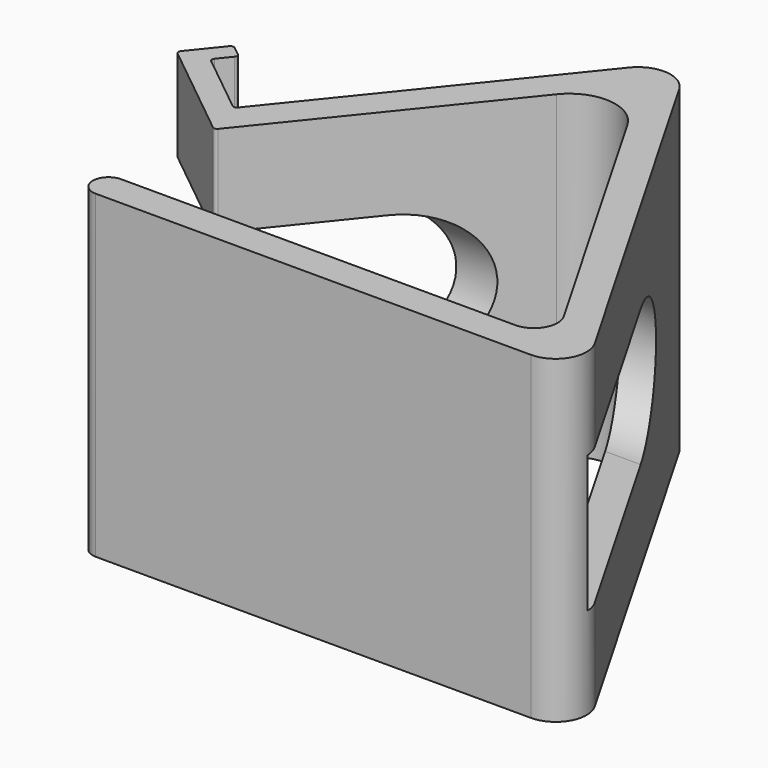
from build123d import *

# Parameters (mm, degrees)
PAD_DEPTH         = 70
POCKET_DEPTH      = 75
POCKET_DEPTH_BACK = 65


with BuildPart() as part:
    # Sketch → Pad (new body)
    with BuildSketch(Plane.XY):
        with BuildLine():
            Line((-9.201384, 43.579781), (-46.391168, -2.578))
            ThreePointArc((-47.445741, -2.691469), (-46.894954, -2.853144), (-46.391168, -2.578))
            Line((-69.249206, 14.875799), (-47.445741, -2.691469))
            ThreePointArc((-69.362676, 15.930373), (-69.52435, 15.379586), (-69.249206, 14.875799))
            Line((-64.029755, 22.549282), (-69.362676, 15.930373))
            ThreePointArc((-62.975181, 22.662751), (-63.525968, 22.824426), (-64.029755, 22.549282))
            Line((-61.028444, 21.094245), (-62.975181, 22.662751))
            ThreePointArc((-60.914974, 20.039672), (-60.7533, 20.590459), (-61.028444, 21.094245))
            Line((-63.110883, 17.314239), (-60.914974, 20.039672))
            ThreePointArc((-63.110883, 17.314239), (-63.272557, 16.763452), (-62.997413, 16.259665))
            Line((-49.759595, 5.593824), (-62.997413, 16.259665))
            ThreePointArc((-49.759595, 5.593824), (-49.208808, 5.432149), (-48.705022, 5.707293))
            Line((-5.744258, 59.027676), (-48.705022, 5.707293))
            ThreePointArc((-5.744258, 59.027676), (0.368567, 61.665407), (5.998454, 58.111729))
            Line((53.504513, -24.375497), (5.998454, 58.111729))
            ThreePointArc((53.504513, -24.375497), (53.49727, -31.134135), (47.640508, -34.507202))
            Line((-47.756765, -34.405463), (47.640508, -34.507202))
            ThreePointArc((-47.631027, -27.500642), (-51.151742, -30.890084), (-47.756765, -34.405463))
            Line((-47.631027, -27.500642), (38.670947, -27.592682))
            ThreePointArc((38.670947, -27.592682), (43.12437, -25.027835), (43.129877, -19.888635))
            Line((43.129877, -19.888635), (7.319285, 42.291148))
            ThreePointArc((7.319285, 42.291148), (-0.60133, 47.290771), (-9.201384, 43.579781))
        make_face()
    extrude(amount=PAD_DEPTH)

    # Sketch001 → Pocket (cut, two sides)
    with BuildSketch(Plane.YZ) as pocket_sk:
        with BuildLine():
            Line((-27.500642, 50), (-27.500642, 20))
            Line((-27.500642, 20), (20.499358, 20))
            ThreePointArc((20.499358, 20), (35.499358, 35), (20.499358, 50))
            Line((20.499358, 50), (-27.500642, 50))
        make_face()
    extrude(amount=-POCKET_DEPTH, mode=Mode.SUBTRACT)
    extrude(pocket_sk.sketch, amount=POCKET_DEPTH_BACK, mode=Mode.SUBTRACT)


solid = part.part
